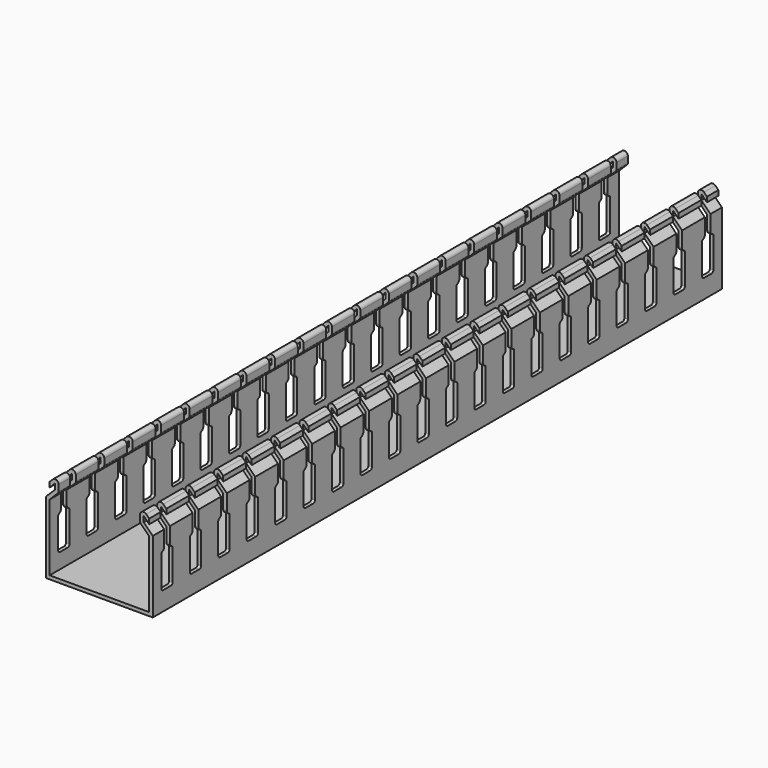
from build123d import *

# Parameters (mm, degrees)
PAD005_DEPTH            = 5
POCKET007_DEPTH         = 15.001
LINEARPATTERN002_COUNT  = 20
LINEARPATTERN002_PITCH  = 10
BODY005_PLACEMENT_ANGLE = 90


with BuildPart() as part:
    # Sketch042 → Pad005 (new body)
    with BuildSketch(Plane.YZ):
        with BuildLine():
            Line((-14, 22.737258), (-14, 24.151472))
            Line((-14, 24.151472), (-13.151472, 25))
            ThreePointArc((-11.444365, 24.292893), (-12.061682, 25.216773), (-13.151472, 25))
            Line((-11.444365, 24.292893), (-11.444365, 22.538346))
            ThreePointArc((-11.596606, 22.170804), (-11.483931, 22.339434), (-11.444365, 22.538346))
            Line((-11.596606, 22.170804), (-14, 19.76741))
            Line((-14, 19.76741), (-14, 1))
            Line((-14, 1), (0, 1))
            Line((0, 0), (0, 1))
            Line((-15, 0), (0, 0))
            Line((-15, 20.181623), (-15, 0))
            Line((-12.444365, 22.737258), (-15, 20.181623))
            Line((-12.444365, 24.292893), (-12.444365, 22.737258))
            Line((-14, 22.737258), (-12.444365, 24.292893))
        make_face()
    extrude(amount=PAD005_DEPTH)

    # Sketch043 (on Face11 of Pad005) → Pocket007 (cut, through all)
    with BuildSketch(Plane(origin=(0, -15, 0), x_dir=(0, 0, -1), z_dir=(0, -1, 0))):
        with BuildLine():
            Line((-25.292893, 0), (-25.292893, 1))
            Line((-25.292893, 1), (-15.864076, 1))
            ThreePointArc((-15.864076, 1), (-15.300861, 1.18134), (-14.949256, 1.657228))
            ThreePointArc((-14.472139, 2), (-14.765879, 1.905424), (-14.949256, 1.657228))
            Line((-14.472139, 2), (-5.938488, 2))
            ThreePointArc((-5.292893, 1.354406), (-5.481983, 1.81091), (-5.938488, 2))
            Line((-5.292893, 1.354406), (-5.292893, 0))
            Line((-5.292893, 0), (-25.292893, 0))
        make_face()
    extrude(amount=-POCKET007_DEPTH, mode=Mode.SUBTRACT)

    # Mirrored002: part across YZ


with BuildPart() as part_1:
    add(part.part)
    add(part.part.mirror(Plane.YZ))

    # Mirrored003: part across XZ


with BuildPart() as part_2:
    add(part_1.part)
    add(part_1.part.mirror(Plane.XZ))

    # LinearPattern002: part ×20


with BuildPart() as part_3:
    add(part_2.part)
    with Locations(*[(i * LINEARPATTERN002_PITCH, 0, 0) for i in range(1, LINEARPATTERN002_COUNT)]):
        add(part_2.part)


with BuildPart() as part_4:
    # Body005 placement: moved
    add(part_3.part.moved(Location((-174, -96, -7))).rotate(Axis((-174, -96, -7), (0, 0, 1)), BODY005_PLACEMENT_ANGLE))


solid = part_4.part
